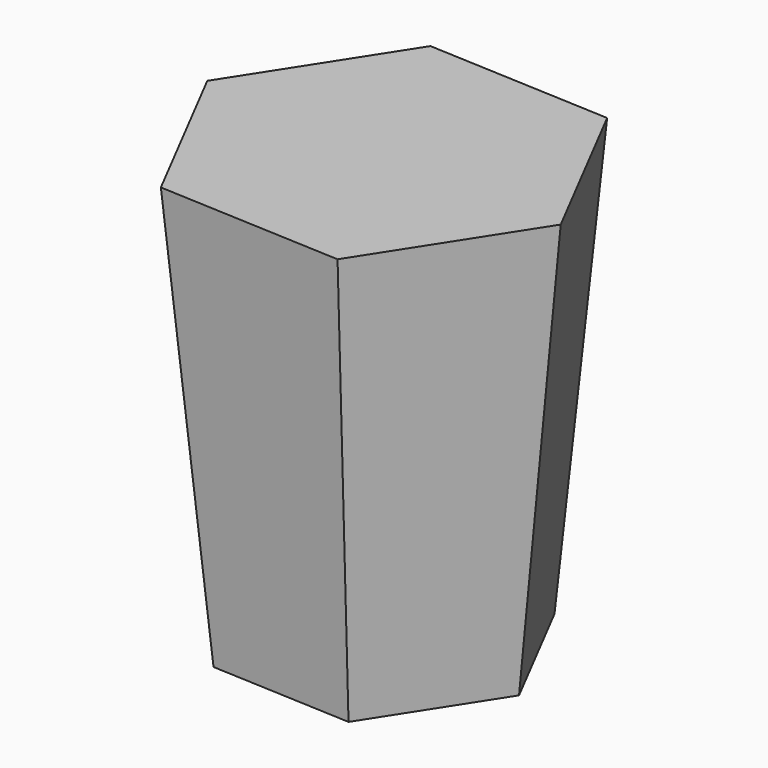
from build123d import *

# Parameters (mm, degrees)
F1_DEPTH = 3048
F1_TAPER = 5


with BuildPart() as f1:
    # F0 (on Top) → F1 (new body)
    with BuildSketch(Plane.XY):
        Polygon((1303.6953418973, -61.7730430585), (705.3446955063, 1098.1467633492), (-598.3506463909, 1159.9198064077), (-1303.6953418973, 61.7730430585), (-705.3446955063, -1098.1467633492), (598.3506463909, -1159.9198064077), align=None)
        Polygon((1303.6953418973, -61.7730430585), (705.3446955063, 1098.1467633492), (-598.3506463909, 1159.9198064077), (-1303.6953418973, 61.7730430585), (-705.3446955063, -1098.1467633492), (598.3506463909, -1159.9198064077), align=None)
    extrude(amount=-F1_DEPTH, taper=F1_TAPER)


solid = f1.part
